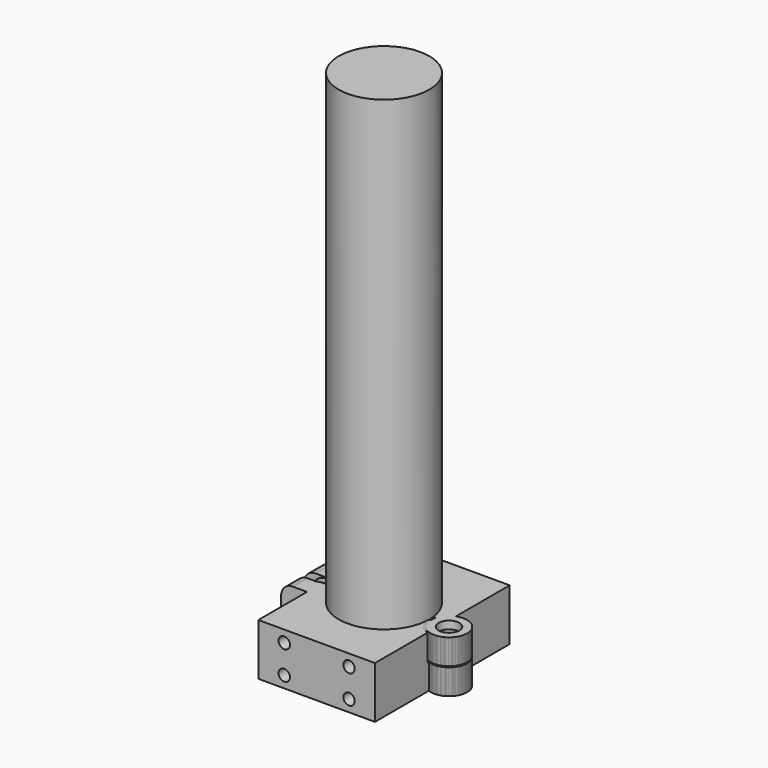
from build123d import *

# Parameters (mm, degrees)
CYLINDER010_R            = 7.6
CYLINDER010_DEPTH        = 10.2
CYLINDER007_R            = 4
CYLINDER007_DEPTH        = 20
CYLINDER006_R            = 1.8
CYLINDER006_DEPTH        = 20
CYLINDER001_R            = 4
CYLINDER001_DEPTH        = 20
CYLINDER_R               = 1.8
CYLINDER_DEPTH           = 20
PAD_DEPTH                = 20
PAD001_DEPTH             = 5
CYLINDER009_R            = 7
CYLINDER009_DEPTH        = 9.8
CYLINDER008_R            = 2.2
CYLINDER008_DEPTH        = 20
CYLINDER002_R            = 2.2
CYLINDER002_DEPTH        = 20
CYLINDER011_R            = 17.5
CYLINDER011_DEPTH        = 200
CYLINDER017_R            = 7.6
CYLINDER017_DEPTH        = 10.2
CYLINDER016_R            = 2.2
CYLINDER016_DEPTH        = 20
CYLINDER015_R            = 2.2
CYLINDER015_DEPTH        = 20
CYLINDER014_R            = 7
CYLINDER014_DEPTH        = 9.8
CYLINDER012_W            = 17.5
CYLINDER012_H            = 20
CYLINDER012_ANGLE        = 180
BOX_W                    = 100
BOX_H                    = 4
BOX_DEPTH                = 20
CYLINDER013_W            = 22.5
CYLINDER013_H            = 20
CYLINDER013_ANGLE        = 180
PAD002_DEPTH             = 9
CYLINDER020_R            = 7.6
CYLINDER020_DEPTH        = 10.2
CYLINDER022_R            = 4
CYLINDER022_DEPTH        = 20
CYLINDER021_R            = 1.8
CYLINDER021_DEPTH        = 20
CYLINDER019_R            = 4
CYLINDER019_DEPTH        = 20
CYLINDER018_R            = 1.8
CYLINDER018_DEPTH        = 20
CYLINDER026_R            = 7.6
CYLINDER026_DEPTH        = 10.2
CYLINDER027_R            = 2.2
CYLINDER027_DEPTH        = 20
CYLINDER023_R            = 2.2
CYLINDER023_DEPTH        = 20
CYLINDER028_R            = 7
CYLINDER028_DEPTH        = 9.8
CYLINDER024_W            = 17.5
CYLINDER024_H            = 20
CYLINDER024_ANGLE        = 180
CYLINDER029_R            = 2.2
CYLINDER029_DEPTH        = 10
ARRAY_X_COUNT            = 2
ARRAY_X_PITCH            = 25
ARRAY_Y_COUNT            = 2
ARRAY_Y_PITCH            = 11
ARRAY_PLACEMENT_ANGLE    = 90
BOX001_W                 = 100
BOX001_H                 = 4
BOX001_DEPTH             = 20
CYLINDER025_W            = 22.5
CYLINDER025_H            = 20
CYLINDER025_ANGLE        = 180
BOX002_W                 = 45
BOX002_H                 = 32.5
BOX002_DEPTH             = 20
PAD003_DEPTH             = 9
CYLINDER035_R            = 7.6
CYLINDER035_DEPTH        = 10.2
CYLINDER037_R            = 4
CYLINDER037_DEPTH        = 20
CYLINDER036_R            = 1.8
CYLINDER036_DEPTH        = 20
CYLINDER034_R            = 4
CYLINDER034_DEPTH        = 20
CYLINDER033_R            = 1.8
CYLINDER033_DEPTH        = 20
CYLINDER030_W            = 17.5
CYLINDER030_H            = 20
CYLINDER030_ANGLE        = 180
CYLINDER038_R            = 2.2
CYLINDER038_DEPTH        = 10
ARRAY001_X_COUNT         = 2
ARRAY001_X_PITCH         = 25
ARRAY001_Y_COUNT         = 2
ARRAY001_Y_PITCH         = 11
ARRAY001_PLACEMENT_ANGLE = 90
BOX003_W                 = 100
BOX003_H                 = 4
BOX003_DEPTH             = 20
CYLINDER031_W            = 22.5
CYLINDER031_H            = 20
CYLINDER031_ANGLE        = 180
BOX004_W                 = 45
BOX004_H                 = 32.5
BOX004_DEPTH             = 20
PAD004_DEPTH             = 9
CYLINDER032_R            = 7
CYLINDER032_DEPTH        = 9.8


with BuildPart() as horizontal_body_space:
    # Cylinder010 → Cylinder010 (new body)
    with BuildSketch(Plane(origin=(25.1, 0, 9.8), x_dir=(1, 0, 0), z_dir=(0, 0, 1))):
        Circle(CYLINDER010_R)
    extrude(amount=CYLINDER010_DEPTH)


with BuildPart() as part_mirroring002:
    # Part__Mirroring002: instance of horizontal body space
    add(horizontal_body_space.part.mirror(Plane(origin=(0, 0, 10), x_dir=(0, 1, 0), z_dir=(0, 0, 1))))


with BuildPart() as horizontal_bolt_head_hole:
    # Cylinder007 → Cylinder007 (new body)
    with BuildSketch(Plane.XY.offset(17)):
        Circle(CYLINDER007_R)
    extrude(amount=CYLINDER007_DEPTH)


with BuildPart() as horizontal_bolt_hole_fusion:
    # Cylinder006 → Cylinder006 (new body)
    with BuildSketch(Plane.XY):
        Circle(CYLINDER006_R)
    extrude(amount=CYLINDER006_DEPTH)

    # Fusion003: union horizontal bolt head hole
    add(horizontal_bolt_head_hole.part)


with BuildPart() as horizontal_bolt_hole_fusion_1:
    # Fusion003 placement: moved
    add(horizontal_bolt_hole_fusion.part.moved(Location((25.1, 0, 0))))


with BuildPart() as bolt_head_hole:
    # Cylinder001 → Cylinder001 (new body)
    with BuildSketch(Plane.XZ):
        Circle(CYLINDER001_R)
    extrude(amount=CYLINDER001_DEPTH)


with BuildPart() as fusion005:
    # Cylinder → Cylinder (new body)
    with BuildSketch(Plane.XZ.offset(-10)):
        Circle(CYLINDER_R)
    extrude(amount=CYLINDER_DEPTH)

    # Fusion: union bolt head hole
    add(bolt_head_hole.part)


with BuildPart() as fusion005_1:
    # Fusion placement: moved
    add(fusion005.part.moved(Location((-22, -5, 10))))

    # Fusion005: union Part__Mirroring002, horizontal bolt hole fusion
    add(part_mirroring002.part)
    add(horizontal_bolt_hole_fusion_1.part)


with BuildPart() as f_25_mm_attachment_body:
    # Sketch → Pad (new body)
    with BuildSketch(Plane.XY):
        with BuildLine():
            ThreePointArc((17.5, 0.0991288905), (0, 17.5991287208), (-17.5, 0.0991288905))
            Line((-23.1664914636, 1.4999812665), (-17.5, 0.0991288905))
            Line((-23.1664914636, 1.4999812665), (-23.1664914636, 6.4999999411))
            Line((-23.1664914636, 6.4999999411), (-21.5021965474, 6.4999999411))
            Line((-21.5021965474, 6.4999999411), (-17.4046634118, 14.6661023452))
            ThreePointArc((17.4046634118, 14.6661023452), (0, 22.9068004155), (-17.4046634118, 14.6661023452))
            Line((17.4046634118, 14.6661023452), (21.5021965474, 6.4999999411))
            Line((21.5021965474, 6.4999999411), (23.1664914636, 6.4999999411))
            Line((23.1664914636, 6.4999999411), (23.1664914636, 1.4999812665))
            Line((17.5, 0.0991288905), (23.1664914636, 1.4999812665))
        make_face()
    extrude(amount=PAD_DEPTH)

    # Sketch001 → Pad001 (join)
    with BuildSketch(Plane.XZ.offset(-1.5)):
        with BuildLine():
            Line((-13.241659036, 19.9999998322), (-23.331659036, 19.9994546363))
            ThreePointArc((-23.331659036, 19.9994546363), (-27.9361168106, 17.7657714559), (-29.8010034103, 13.0000008028))
            Line((-29.8010034103, 13.0000008028), (-29.700430835, 7.0000071698))
            ThreePointArc((-29.700430835, 7.0000071698), (-28.1980722924, 2.3110312669), (-23.8500523029, 0.0005554764))
            Line((-13.7600523034, -1.78e-07), (-23.8500523029, 0.0005554764))
            Line((-13.241659036, 19.9999998322), (-13.7600523034, -1.78e-07))
        make_face()
    extrude(amount=-PAD001_DEPTH)


with BuildPart() as part_mirroring:
    # Part__Mirroring: instance of 25 mm attachment body
    add(f_25_mm_attachment_body.part.mirror(Plane(origin=(0, 0, 0), x_dir=(1, 0, 0), z_dir=(0, 1, 0))))


with BuildPart() as horizontal_body:
    # Cylinder009 → Cylinder009 (new body)
    with BuildSketch(Plane(origin=(25.1, 0, 0), x_dir=(1, 0, 0), z_dir=(0, 0, 1))):
        Circle(CYLINDER009_R)
    extrude(amount=CYLINDER009_DEPTH)


with BuildPart() as f_35_mm_attachment_holed_cut:
    # Part__Mirroring001: instance of horizontal body
    add(horizontal_body.part.mirror(Plane(origin=(0, 0, 10), x_dir=(0, 1, 0), z_dir=(0, 0, 1))))

    # Fusion004: union Part__Mirroring
    add(part_mirroring.part)

    # Cut: cut Fusion005
    add(fusion005_1.part, mode=Mode.SUBTRACT)


with BuildPart() as horizontal_insert_hole:
    # Cylinder008 → Cylinder008 (new body)
    with BuildSketch(Plane(origin=(25.1, 0, 0), x_dir=(1, 0, 0), z_dir=(0, 0, 1))):
        Circle(CYLINDER008_R)
    extrude(amount=CYLINDER008_DEPTH)


with BuildPart() as f_25_mm_attachment_extract:
    # Cylinder002 → Cylinder002 (new body)
    with BuildSketch(Plane(origin=(-22, 20, 10), x_dir=(1, 0, 0), z_dir=(0, -1, 0))):
        Circle(CYLINDER002_R)
    extrude(amount=CYLINDER002_DEPTH)

    # Fusion007: union horizontal body space, horizontal insert hole
    add(horizontal_body_space.part)
    add(horizontal_insert_hole.part)


with BuildPart() as f_35_mm_attachment_inserted_cut:
    # Fusion006 base: copy of horizontal body
    add(horizontal_body.part)

    # Fusion006: union 25 mm attachment body
    add(f_25_mm_attachment_body.part)

    # Cut023015002: cut 25 mm attachment extract
    add(f_25_mm_attachment_extract.part, mode=Mode.SUBTRACT)


with BuildPart() as f_35mm_pipe_mockup:
    # Cylinder011 → Cylinder011 (new body)
    with BuildSketch(Plane.XY):
        Circle(CYLINDER011_R)
    extrude(amount=CYLINDER011_DEPTH)


with BuildPart() as horizontal_body_space001:
    # Cylinder017 → Cylinder017 (new body)
    with BuildSketch(Plane(origin=(25.1, 0, 9.8), x_dir=(1, 0, 0), z_dir=(0, 0, 1))):
        Circle(CYLINDER017_R)
    extrude(amount=CYLINDER017_DEPTH)


with BuildPart() as horizontal_insert_hole001:
    # Cylinder016 → Cylinder016 (new body)
    with BuildSketch(Plane(origin=(25.1, 0, 0), x_dir=(1, 0, 0), z_dir=(0, 0, 1))):
        Circle(CYLINDER016_R)
    extrude(amount=CYLINDER016_DEPTH)


with BuildPart() as f_35_mm_attachment_insert_extract:
    # Cylinder015 → Cylinder015 (new body)
    with BuildSketch(Plane(origin=(-27.5, 0, 10), x_dir=(1, 0, 0), z_dir=(0, -1, 0))):
        Circle(CYLINDER015_R)
    extrude(amount=CYLINDER015_DEPTH)

    # Fusion010: union horizontal body space001, horizontal insert hole001
    add(horizontal_body_space001.part)
    add(horizontal_insert_hole001.part)


with BuildPart() as horizontal_body001:
    # Cylinder014 → Cylinder014 (new body)
    with BuildSketch(Plane(origin=(25.1, 0, 0), x_dir=(1, 0, 0), z_dir=(0, 0, 1))):
        Circle(CYLINDER014_R)
    extrude(amount=CYLINDER014_DEPTH)


with BuildPart() as internal_cylinder:
    # Cylinder012 → Cylinder012 (revolve)
    with BuildSketch(Plane.XZ):
        with Locations((8.75, 10)):
            Rectangle(CYLINDER012_W, CYLINDER012_H)
    revolve(axis=Axis((0, 0, 0), (0, 0, 1)), revolution_arc=CYLINDER012_ANGLE)


with BuildPart() as f_35mm_pipe_attach_extract:
    # Box → Box (new body)
    with BuildSketch(Plane(origin=(-50, -2, 0), x_dir=(1, 0, 0), z_dir=(0, 0, 1))):
        with Locations((50, 2)):
            Rectangle(BOX_W, BOX_H)
    extrude(amount=BOX_DEPTH)

    # Fusion008: union internal_cylinder
    add(internal_cylinder.part)


with BuildPart() as external_cylinder:
    # Cylinder013 → Cylinder013 (revolve)
    with BuildSketch(Plane.XZ):
        with Locations((11.25, 10)):
            Rectangle(CYLINDER013_W, CYLINDER013_H)
    revolve(axis=Axis((0, 0, 0), (0, 0, 1)), revolution_arc=CYLINDER013_ANGLE)


with BuildPart() as f_35mm_pipe_attachment_cut:
    # Sketch002 → Pad002 (new body)
    with BuildSketch(Plane.XZ):
        with BuildLine():
            Line((-17.5, 0), (-17.5, 20))
            Line((-17.5, 20), (-28.0128536237, 20))
            ThreePointArc((-28.0128536237, 20), (-31.1857452545, 18.6857452545), (-32.5, 15.5128536237))
            Line((-32.5, 15.5128536237), (-32.5, 4.4871463763))
            ThreePointArc((-32.5, 4.4871463763), (-31.1857452545, 1.3142547455), (-28.0128536237, 0))
            Line((-17.5, 0), (-28.0128536237, 0))
        make_face()
    extrude(amount=-PAD002_DEPTH)

    # Fusion009: union external_cylinder
    add(external_cylinder.part)

    # Cut023015003: cut 35mm pipe attach extract
    add(f_35mm_pipe_attach_extract.part, mode=Mode.SUBTRACT)


with BuildPart() as f_35mm_pipe_attachment_insert_cut:
    # Part__Mirroring004: instance of 35mm pipe attachment cut
    add(f_35mm_pipe_attachment_cut.part.mirror(Plane(origin=(0, 0, 0), x_dir=(1, 0, 0), z_dir=(0, 1, 0))))

    # Fusion011: union horizontal body001
    add(horizontal_body001.part)

    # Cut023015004: cut 35 mm attachment insert extract
    add(f_35_mm_attachment_insert_extract.part, mode=Mode.SUBTRACT)


with BuildPart() as horizontal_body_space002:
    # Cylinder020 → Cylinder020 (new body)
    with BuildSketch(Plane(origin=(25.1, 0, 9.8), x_dir=(1, 0, 0), z_dir=(0, 0, 1))):
        Circle(CYLINDER020_R)
    extrude(amount=CYLINDER020_DEPTH)


with BuildPart() as part_mirroring006:
    # Part__Mirroring006: instance of horizontal body space002
    add(horizontal_body_space002.part.mirror(Plane(origin=(0, 0, 10), x_dir=(0, 1, 0), z_dir=(0, 0, 1))))


with BuildPart() as bolt_head_hole001:
    # Cylinder022 → Cylinder022 (new body)
    with BuildSketch(Plane.XZ):
        Circle(CYLINDER022_R)
    extrude(amount=CYLINDER022_DEPTH)


with BuildPart() as bolt_hole_fusion001:
    # Cylinder021 → Cylinder021 (new body)
    with BuildSketch(Plane.XZ.offset(12)):
        Circle(CYLINDER021_R)
    extrude(amount=CYLINDER021_DEPTH)

    # Fusion015: union bolt head hole001
    add(bolt_head_hole001.part)


with BuildPart() as bolt_hole_fusion001_1:
    # Fusion015 placement: moved
    add(bolt_hole_fusion001.part.moved(Location((-27.5, 26, 10))))


with BuildPart() as horizontal_bolt_head_hole001:
    # Cylinder019 → Cylinder019 (new body)
    with BuildSketch(Plane.XY.offset(17)):
        Circle(CYLINDER019_R)
    extrude(amount=CYLINDER019_DEPTH)


with BuildPart() as f_35_mm_attachment_bolt_extract:
    # Cylinder018 → Cylinder018 (new body)
    with BuildSketch(Plane.XY):
        Circle(CYLINDER018_R)
    extrude(amount=CYLINDER018_DEPTH)

    # Fusion013: union horizontal bolt head hole001
    add(horizontal_bolt_head_hole001.part)


with BuildPart() as f_35_mm_attachment_bolt_extract_1:
    # Fusion013 placement: moved
    add(f_35_mm_attachment_bolt_extract.part.moved(Location((25.1, 0, 0))))

    # Fusion014: union Part__Mirroring006, bolt hole fusion001
    add(part_mirroring006.part)
    add(bolt_hole_fusion001_1.part)


with BuildPart() as f_35mm_pipe_attachment_bolt_cut:
    # Part__Mirroring005: instance of horizontal body001
    add(horizontal_body001.part.mirror(Plane(origin=(0, 0, 10), x_dir=(0, 1, 0), z_dir=(0, 0, 1))))

    # Fusion012: union 35mm pipe attachment cut
    add(f_35mm_pipe_attachment_cut.part)

    # Cut023015005: cut 35 mm attachment bolt extract
    add(f_35_mm_attachment_bolt_extract_1.part, mode=Mode.SUBTRACT)


with BuildPart() as horizontal_body_space003:
    # Cylinder026 → Cylinder026 (new body)
    with BuildSketch(Plane(origin=(25.1, 0, 9.8), x_dir=(1, 0, 0), z_dir=(0, 0, 1))):
        Circle(CYLINDER026_R)
    extrude(amount=CYLINDER026_DEPTH)


with BuildPart() as horizontal_insert_hole002:
    # Cylinder027 → Cylinder027 (new body)
    with BuildSketch(Plane(origin=(25.1, 0, 0), x_dir=(1, 0, 0), z_dir=(0, 0, 1))):
        Circle(CYLINDER027_R)
    extrude(amount=CYLINDER027_DEPTH)


with BuildPart() as f_35_mm_attachment_insert_extract001:
    # Cylinder023 → Cylinder023 (new body)
    with BuildSketch(Plane(origin=(-27.5, 0, 10), x_dir=(1, 0, 0), z_dir=(0, -1, 0))):
        Circle(CYLINDER023_R)
    extrude(amount=CYLINDER023_DEPTH)

    # Fusion018: union horizontal body space003, horizontal insert hole002
    add(horizontal_body_space003.part)
    add(horizontal_insert_hole002.part)


with BuildPart() as horizontal_body002:
    # Cylinder028 → Cylinder028 (new body)
    with BuildSketch(Plane(origin=(25.1, 0, 0), x_dir=(1, 0, 0), z_dir=(0, 0, 1))):
        Circle(CYLINDER028_R)
    extrude(amount=CYLINDER028_DEPTH)


with BuildPart() as internal_cylinder001:
    # Cylinder024 → Cylinder024 (revolve)
    with BuildSketch(Plane.XZ):
        with Locations((8.75, 10)):
            Rectangle(CYLINDER024_W, CYLINDER024_H)
    revolve(axis=Axis((0, 0, 0), (0, 0, 1)), revolution_arc=CYLINDER024_ANGLE)


with BuildPart() as insert_size_hole_array:
    # Cylinder029 → Cylinder029 (new body)
    with BuildSketch(Plane.XY):
        Circle(CYLINDER029_R)
    extrude(amount=CYLINDER029_DEPTH)

    # Array X: insert size hole array ×2


with BuildPart() as insert_size_hole_array_1:
    add(insert_size_hole_array.part)
    with Locations(*[(i * ARRAY_X_PITCH, 0, 0) for i in range(1, ARRAY_X_COUNT)]):
        add(insert_size_hole_array.part)

    # Array Y: insert size hole array ×2


with BuildPart() as insert_size_hole_array_2:
    add(insert_size_hole_array_1.part)
    with Locations(*[(0, i * ARRAY_Y_PITCH, 0) for i in range(1, ARRAY_Y_COUNT)]):
        add(insert_size_hole_array_1.part)


with BuildPart() as insert_size_hole_array_3:
    # Array placement: moved
    add(insert_size_hole_array_2.part.moved(Location((-12.5, 32.5, 4.5))).rotate(Axis((-12.5, 32.5, 4.5), (1, 0, 0)), ARRAY_PLACEMENT_ANGLE))


with BuildPart() as f_35mm_pipe_attach_extract001:
    # Box001 → Box001 (new body)
    with BuildSketch(Plane(origin=(-50, -2, 0), x_dir=(1, 0, 0), z_dir=(0, 0, 1))):
        with Locations((50, 2)):
            Rectangle(BOX001_W, BOX001_H)
    extrude(amount=BOX001_DEPTH)

    # Fusion016: union internal_cylinder001, insert size hole array
    add(internal_cylinder001.part)
    add(insert_size_hole_array_3.part)


with BuildPart() as external_cylinder001:
    # Cylinder025 → Cylinder025 (revolve)
    with BuildSketch(Plane.XZ):
        with Locations((11.25, 10)):
            Rectangle(CYLINDER025_W, CYLINDER025_H)
    revolve(axis=Axis((0, 0, 0), (0, 0, 1)), revolution_arc=CYLINDER025_ANGLE)


with BuildPart() as flat_attachment_cube:
    # Box002 → Box002 (new body)
    with BuildSketch(Plane(origin=(-22.5, 0, 0), x_dir=(1, 0, 0), z_dir=(0, 0, 1))):
        with Locations((22.5, 16.25)):
            Rectangle(BOX002_W, BOX002_H)
    extrude(amount=BOX002_DEPTH)


with BuildPart() as f_35mm_pipe_attachment_cut001:
    # Sketch003 → Pad003 (new body)
    with BuildSketch(Plane.XZ):
        with BuildLine():
            Line((-17.5, 0), (-17.5, 20))
            Line((-17.5, 20), (-28.0128536237, 20))
            ThreePointArc((-28.0128536237, 20), (-31.1857452545, 18.6857452545), (-32.5, 15.5128536237))
            Line((-32.5, 15.5128536237), (-32.5, 4.4871463763))
            ThreePointArc((-32.5, 4.4871463763), (-31.1857452545, 1.3142547455), (-28.0128536237, 0))
            Line((-17.5, 0), (-28.0128536237, 0))
        make_face()
    extrude(amount=-PAD003_DEPTH)

    # Fusion017: union external_cylinder001, flat attachment cube
    add(external_cylinder001.part)
    add(flat_attachment_cube.part)

    # Cut023015007: cut 35mm pipe attach extract001
    add(f_35mm_pipe_attach_extract001.part, mode=Mode.SUBTRACT)


with BuildPart() as f_35mm_pipe_attachment_insert_cut001:
    # Part__Mirroring007: instance of 35mm pipe attachment cut001
    add(f_35mm_pipe_attachment_cut001.part.mirror(Plane(origin=(0, 0, 0), x_dir=(1, 0, 0), z_dir=(0, 1, 0))))

    # Fusion019: union horizontal body002
    add(horizontal_body002.part)

    # Cut023015006: cut 35 mm attachment insert extract001
    add(f_35_mm_attachment_insert_extract001.part, mode=Mode.SUBTRACT)


with BuildPart() as horizontal_body_space004:
    # Cylinder035 → Cylinder035 (new body)
    with BuildSketch(Plane(origin=(25.1, 0, 9.8), x_dir=(1, 0, 0), z_dir=(0, 0, 1))):
        Circle(CYLINDER035_R)
    extrude(amount=CYLINDER035_DEPTH)


with BuildPart() as part_mirroring009:
    # Part__Mirroring009: instance of horizontal body space004
    add(horizontal_body_space004.part.mirror(Plane(origin=(0, 0, 10), x_dir=(0, 1, 0), z_dir=(0, 0, 1))))


with BuildPart() as bolt_head_hole002:
    # Cylinder037 → Cylinder037 (new body)
    with BuildSketch(Plane.XZ):
        Circle(CYLINDER037_R)
    extrude(amount=CYLINDER037_DEPTH)


with BuildPart() as bolt_hole_fusion002:
    # Cylinder036 → Cylinder036 (new body)
    with BuildSketch(Plane.XZ.offset(12)):
        Circle(CYLINDER036_R)
    extrude(amount=CYLINDER036_DEPTH)

    # Fusion025: union bolt head hole002
    add(bolt_head_hole002.part)


with BuildPart() as bolt_hole_fusion002_1:
    # Fusion025 placement: moved
    add(bolt_hole_fusion002.part.moved(Location((-27.5, 26, 10))))


with BuildPart() as horizontal_bolt_head_hole002:
    # Cylinder034 → Cylinder034 (new body)
    with BuildSketch(Plane.XY.offset(17)):
        Circle(CYLINDER034_R)
    extrude(amount=CYLINDER034_DEPTH)


with BuildPart() as f_35_mm_attachment_bolt_extract001:
    # Cylinder033 → Cylinder033 (new body)
    with BuildSketch(Plane.XY):
        Circle(CYLINDER033_R)
    extrude(amount=CYLINDER033_DEPTH)

    # Fusion023: union horizontal bolt head hole002
    add(horizontal_bolt_head_hole002.part)


with BuildPart() as f_35_mm_attachment_bolt_extract001_1:
    # Fusion023 placement: moved
    add(f_35_mm_attachment_bolt_extract001.part.moved(Location((25.1, 0, 0))))

    # Fusion024: union Part__Mirroring009, bolt hole fusion002
    add(part_mirroring009.part)
    add(bolt_hole_fusion002_1.part)


with BuildPart() as internal_cylinder002:
    # Cylinder030 → Cylinder030 (revolve)
    with BuildSketch(Plane.XZ):
        with Locations((8.75, 10)):
            Rectangle(CYLINDER030_W, CYLINDER030_H)
    revolve(axis=Axis((0, 0, 0), (0, 0, 1)), revolution_arc=CYLINDER030_ANGLE)


with BuildPart() as insert_size_hole_array001:
    # Cylinder038 → Cylinder038 (new body)
    with BuildSketch(Plane.XY):
        Circle(CYLINDER038_R)
    extrude(amount=CYLINDER038_DEPTH)

    # Array001 X: insert size hole array001 ×2


with BuildPart() as insert_size_hole_array001_1:
    add(insert_size_hole_array001.part)
    with Locations(*[(i * ARRAY001_X_PITCH, 0, 0) for i in range(1, ARRAY001_X_COUNT)]):
        add(insert_size_hole_array001.part)

    # Array001 Y: insert size hole array001 ×2


with BuildPart() as insert_size_hole_array001_2:
    add(insert_size_hole_array001_1.part)
    with Locations(*[(0, i * ARRAY001_Y_PITCH, 0) for i in range(1, ARRAY001_Y_COUNT)]):
        add(insert_size_hole_array001_1.part)


with BuildPart() as insert_size_hole_array001_3:
    # Array001 placement: moved
    add(insert_size_hole_array001_2.part.moved(Location((-12.5, 32.5, 4.5))).rotate(Axis((-12.5, 32.5, 4.5), (1, 0, 0)), ARRAY001_PLACEMENT_ANGLE))


with BuildPart() as f_35mm_pipe_attach_extract002:
    # Box003 → Box003 (new body)
    with BuildSketch(Plane(origin=(-50, -2, 0), x_dir=(1, 0, 0), z_dir=(0, 0, 1))):
        with Locations((50, 2)):
            Rectangle(BOX003_W, BOX003_H)
    extrude(amount=BOX003_DEPTH)

    # Fusion020: union internal_cylinder002, insert size hole array001
    add(internal_cylinder002.part)
    add(insert_size_hole_array001_3.part)


with BuildPart() as external_cylinder002:
    # Cylinder031 → Cylinder031 (revolve)
    with BuildSketch(Plane.XZ):
        with Locations((11.25, 10)):
            Rectangle(CYLINDER031_W, CYLINDER031_H)
    revolve(axis=Axis((0, 0, 0), (0, 0, 1)), revolution_arc=CYLINDER031_ANGLE)


with BuildPart() as flat_attachment_cube001:
    # Box004 → Box004 (new body)
    with BuildSketch(Plane(origin=(-22.5, 0, 0), x_dir=(1, 0, 0), z_dir=(0, 0, 1))):
        with Locations((22.5, 16.25)):
            Rectangle(BOX004_W, BOX004_H)
    extrude(amount=BOX004_DEPTH)


with BuildPart() as f_35mm_pipe_attachment_cut002:
    # Sketch004 → Pad004 (new body)
    with BuildSketch(Plane.XZ):
        with BuildLine():
            Line((-17.5, 0), (-17.5, 20))
            Line((-17.5, 20), (-28.0128536237, 20))
            ThreePointArc((-28.0128536237, 20), (-31.1857452545, 18.6857452545), (-32.5, 15.5128536237))
            Line((-32.5, 15.5128536237), (-32.5, 4.4871463763))
            ThreePointArc((-32.5, 4.4871463763), (-31.1857452545, 1.3142547455), (-28.0128536237, 0))
            Line((-17.5, 0), (-28.0128536237, 0))
        make_face()
    extrude(amount=-PAD004_DEPTH)

    # Fusion021: union external_cylinder002, flat attachment cube001
    add(external_cylinder002.part)
    add(flat_attachment_cube001.part)

    # Cut023015008: cut 35mm pipe attach extract002
    add(f_35mm_pipe_attach_extract002.part, mode=Mode.SUBTRACT)


with BuildPart() as horizontal_body003:
    # Cylinder032 → Cylinder032 (new body)
    with BuildSketch(Plane(origin=(25.1, 0, 0), x_dir=(1, 0, 0), z_dir=(0, 0, 1))):
        Circle(CYLINDER032_R)
    extrude(amount=CYLINDER032_DEPTH)


with BuildPart() as f_35mm_pipe_attachment_bolt_cut001:
    # Part__Mirroring008: instance of horizontal body003
    add(horizontal_body003.part.mirror(Plane(origin=(0, 0, 10), x_dir=(0, 1, 0), z_dir=(0, 0, 1))))

    # Fusion022: union 35mm pipe attachment cut002
    add(f_35mm_pipe_attachment_cut002.part)

    # Cut023015009: cut 35 mm attachment bolt extract001
    add(f_35_mm_attachment_bolt_extract001_1.part, mode=Mode.SUBTRACT)


solid = Compound([f_35_mm_attachment_holed_cut.part, f_35_mm_attachment_inserted_cut.part, f_35mm_pipe_mockup.part, f_35mm_pipe_attachment_insert_cut.part, f_35mm_pipe_attachment_bolt_cut.part, f_35mm_pipe_attachment_insert_cut001.part, f_35mm_pipe_attachment_bolt_cut001.part])
